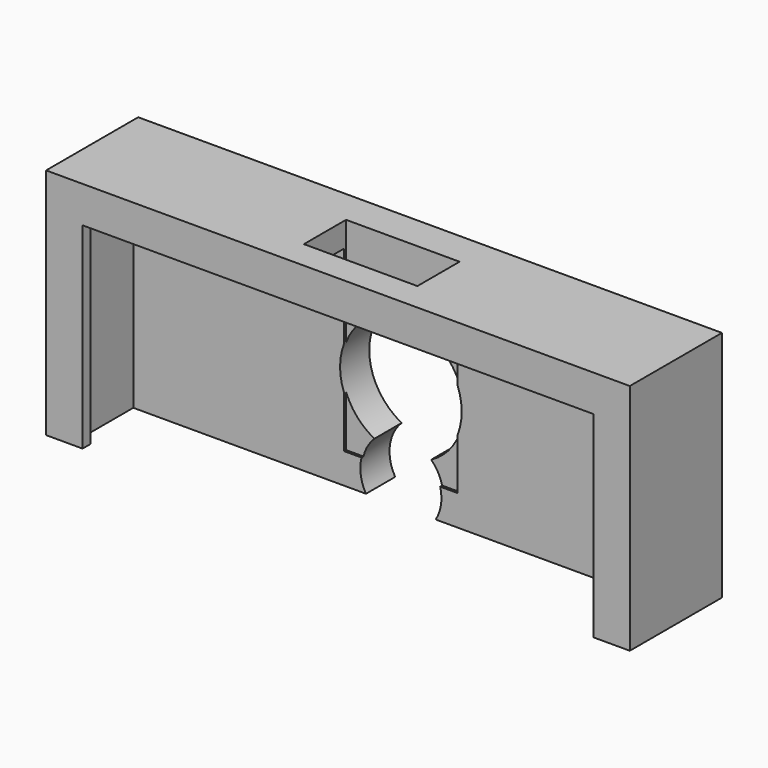
from build123d import *

# Parameters (mm, degrees)
F0_W      = 72
F0_H      = 132
F1_DEPTH  = 13
F2_W      = 66
F2_H      = 126
F3_DEPTH  = 8.5
F4_W      = 72
F4_H      = 132
F4_W_2    = 66
F4_H_2    = 126
F4_W_3    = 63
F4_H_3    = 123
F5_DEPTH  = 1.2
F6_R      = 7.5
F7_DEPTH  = 25
F8_DEPTH  = 25
F9_R      = 5
F10_DEPTH = 25
F11_W     = 14
F11_H     = 6.5
F12_DEPTH = 25
F13_W     = 35
F13_H     = 3
F14_DEPTH = 25
F15_W     = 95.4631343484
F15_H     = 107.6438874006
F16_DEPTH = 14.201


with BuildPart() as f1:
    # F0 (on Front) → F1 (new body)
    with BuildSketch(Plane.XZ):
        Rectangle(F0_W, F0_H)
    extrude(amount=F1_DEPTH)

    # F2 (on face) → F3 (cut)
    with BuildSketch(Plane.XZ.offset(13)):
        Rectangle(F2_W, F2_H)
    extrude(amount=-F3_DEPTH, mode=Mode.SUBTRACT)

    # F4 (on face) → F5 (join)
    with BuildSketch(Plane.XZ.offset(13)):
        Rectangle(F4_W, F4_H)
        Rectangle(F4_W_2, F4_H_2, mode=Mode.SUBTRACT)
        Rectangle(F4_W_2, F4_H_2)
        Rectangle(F4_W_3, F4_H_3, mode=Mode.SUBTRACT)
    extrude(amount=F5_DEPTH)

    # F6 (on face) → F7 (cut)
    with BuildSketch(Plane.XZ.offset(4.5)):
        with Locations((0, 50)):
            Circle(F6_R)
    extrude(amount=-F7_DEPTH, mode=Mode.SUBTRACT)

    # F6 (on face) → F8 (cut)
    with BuildSketch(Plane.XZ.offset(4.5)):
        with Locations((0, 50)):
            Circle(F6_R)
    extrude(amount=-F8_DEPTH, mode=Mode.SUBTRACT)

    # F9 (on face) → F10 (cut)
    with BuildSketch(Plane.XZ.offset(4.5)):
        with Locations((0, 39.799913764)):
            Circle(F9_R)
    extrude(amount=-F10_DEPTH, mode=Mode.SUBTRACT)

    # F11 (on face) → F12 (cut)
    with BuildSketch(Plane.XY.offset(66)):
        with Locations((0, -7.45)):
            Rectangle(F11_W, F11_H)
    extrude(amount=-F12_DEPTH, mode=Mode.SUBTRACT)

    # F13 (on face) → F14 (cut)
    with BuildSketch(Plane.XZ.offset(4.5)):
        with Locations((0, -54)):
            Rectangle(F13_W, F13_H)
    extrude(amount=-F14_DEPTH, mode=Mode.SUBTRACT)

    # F15 (on Front) → F16 (cut, through all)
    with BuildSketch(Plane.XZ):
        with Locations((-3.6825537682, -16.5714919567)):
            Rectangle(F15_W, F15_H)
    extrude(amount=F16_DEPTH, mode=Mode.SUBTRACT)


solid = f1.part
